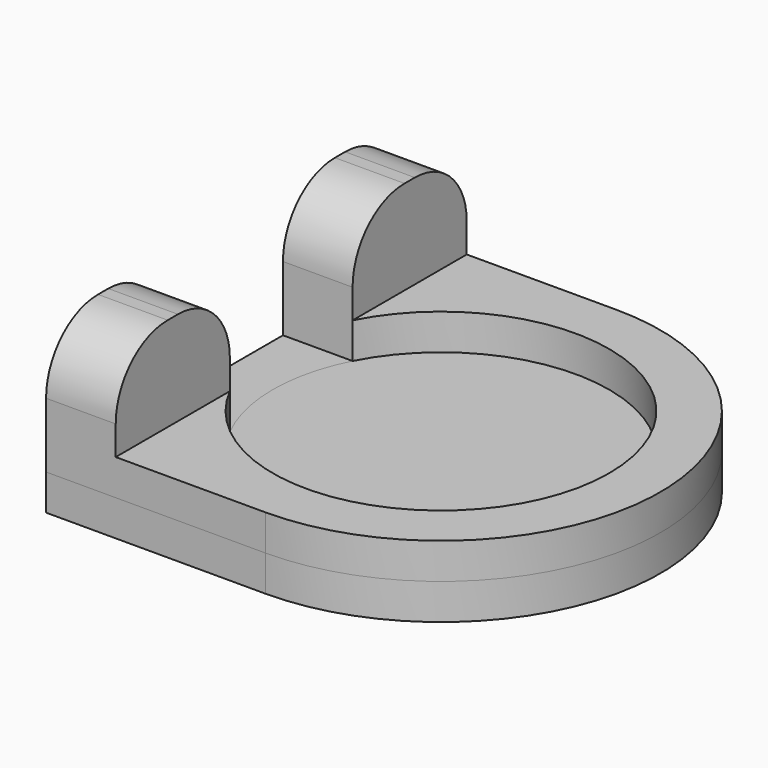
from build123d import *

# Parameters (mm, degrees)
F0_R      = 32.9
F1_DEPTH  = 25.4
F1_FACE_R = 32.9
F2_R      = 32.9
F3_DEPTH  = 7
F5_DEPTH  = 25.4
F7_DEPTH  = 18.4
F8_R      = 12.7


with BuildPart() as f1:
    # F0 (on Top) → F1 (new body)
    with BuildSketch(Plane.XY):
        with BuildLine():
            ThreePointArc((-42.9, 1.789e-07), (-30.3348808497, 30.3348809761), (0, 42.9))
            Line((0, 42.9), (-42.9, 42.9))
            Line((-42.9, 42.9), (-42.9, 1.789e-07))
        make_face()
        with BuildLine():
            Line((-42.9, -42.9), (0, -42.9))
            ThreePointArc((0, -42.9), (-30.3348809761, -30.3348808497), (-42.9, 1.789e-07))
            Line((-42.9, 1.789e-07), (-42.9, -42.9))
        make_face()
        with BuildLine():
            ThreePointArc((0, -42.9), (30.3348809129, -30.3348809129), (42.9, 0))
            ThreePointArc((42.9, 0), (30.3348809129, 30.3348809129), (0, 42.9))
            ThreePointArc((0, 42.9), (-30.3348808497, 30.3348809761), (-42.9, 1.789e-07))
            ThreePointArc((-42.9, 1.789e-07), (-30.3348809761, -30.3348808497), (0, -42.9))
        make_face()
        Circle(F0_R, mode=Mode.SUBTRACT)
    extrude(amount=F1_DEPTH)

    # F1_face (on face) + F2 (on Top) → F3 (join)
    with BuildSketch(Plane(origin=(-8.2989240486, 0, 0), x_dir=(1, 0, 0), z_dir=(0, 0, -1))):
        with BuildLine():
            Line((-34.6010759514, -42.9), (8.2989240486, -42.9))
            ThreePointArc((8.2989240486, -42.9), (51.1989240486, 0), (8.2989240486, 42.9))
            Line((8.2989240486, 42.9), (-34.6010759514, 42.9))
            Line((-34.6010759514, 42.9), (-34.6010759514, -42.9))
        make_face()
        with Locations((8.2989240486, 0)):
            Circle(F1_FACE_R, mode=Mode.SUBTRACT)
    with BuildSketch(Plane.XY):
        Circle(F2_R)
    extrude(amount=F3_DEPTH, dir=(0, 0, -1))

    # F4 (on Top) → F5 (cut)
    with BuildSketch(Plane.XY):
        with BuildLine():
            ThreePointArc((-29.2815641659, -15), (-32.9, 0), (-29.2815641659, 15))
            Line((-29.2815641659, 15), (-42.9, 15))
            Line((-42.9, 15), (-42.9, -15))
            Line((-42.9, -15), (-29.2815641659, -15))
        make_face()
    extrude(amount=F5_DEPTH, mode=Mode.SUBTRACT)

    # F6 (on face) → F7 (cut)
    with BuildSketch(Plane.XY.offset(25.4)):
        with BuildLine():
            Line((-29.2815641659, 42.9), (-29.2815641659, 15))
            ThreePointArc((-29.2815641659, 15), (32.9, 0), (-29.2815641659, -15))
            Line((-29.2815641659, -15), (-29.2815641659, -42.9))
            Line((-29.2815641659, -42.9), (0, -42.9))
            ThreePointArc((0, -42.9), (42.9, 0), (0, 42.9))
            Line((0, 42.9), (-29.2815641659, 42.9))
        make_face()
    extrude(amount=-F7_DEPTH, mode=Mode.SUBTRACT)

    # F8
    f8_edges = [f1.edges().sort_by_distance(p)[0] for p in [
        (-36.090782, -42.9, 25.4),
        (-36.090782, -15, 25.4),
        (-36.090782, 15, 25.4),
        (-36.090782, 42.9, 25.4),
    ]]
    fillet(f8_edges, radius=F8_R)


solid = f1.part
